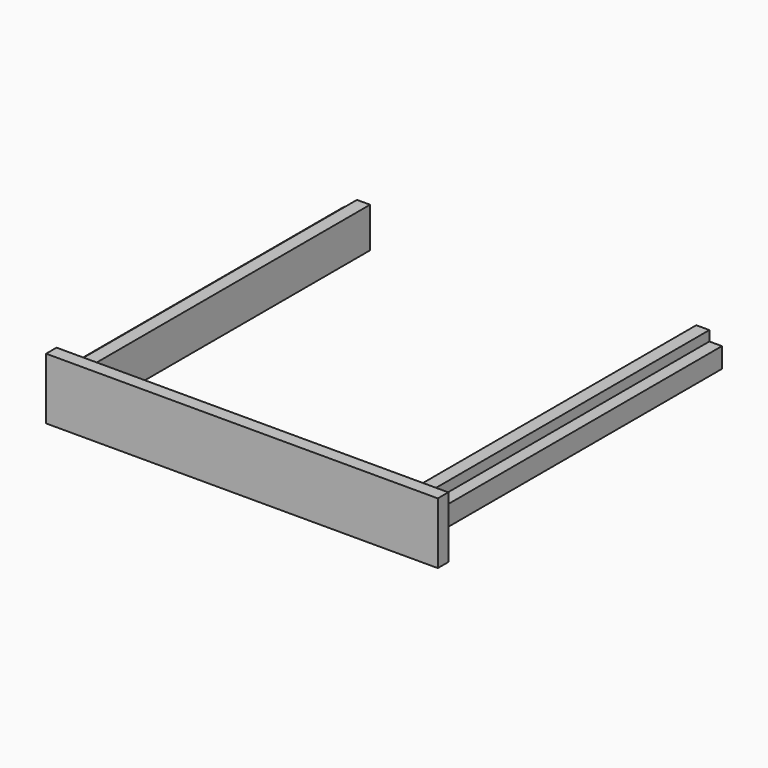
from build123d import *

# Parameters (mm, degrees)
F0_W     = 780.2
F0_H     = 122.3
F1_DEPTH = 26.1
F2_W     = 25
F2_H     = 40
F3_DEPTH = 698.9


with BuildPart() as f1:
    # F0 (on Front) → F1 (new body)
    with BuildSketch(Plane.XZ):
        Rectangle(F0_W, F0_H)
    extrude(amount=F1_DEPTH)

    # F2 (on face) → F3 (join)
    with BuildSketch(Plane(origin=(0, 0, 0), x_dir=(-1, 0, 0), z_dir=(0, 1, 0))):
        Polygon((-350.95, 48.85), (-350.95, 28.85), (-350.95, -11.15), (-350.95, -31.15), (-324.85, -31.15), (-324.85, 48.85), align=None)
        Polygon((350.95, 28.85), (350.95, 48.85), (324.85, 48.85), (324.85, -31.15), (350.95, -31.15), (350.95, -11.15), align=None)
        with Locations((363.45, 8.85)):
            Rectangle(F2_W, F2_H)
        with Locations((-363.45, 8.85)):
            Rectangle(F2_W, F2_H)
    extrude(amount=F3_DEPTH)


solid = f1.part
